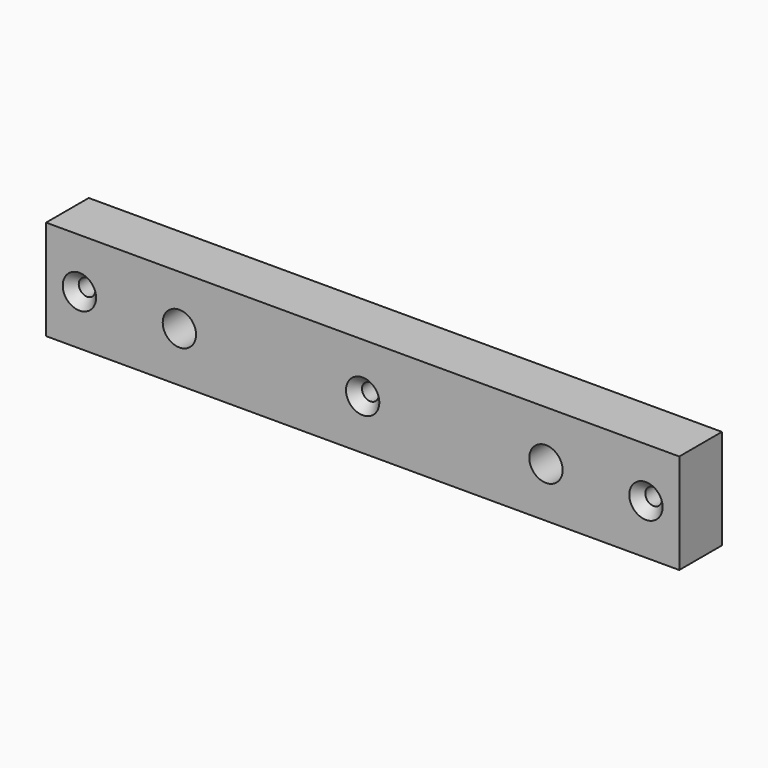
from build123d import *

# Parameters (mm, degrees)
F0_W           = 190
F0_H           = 30
F1_DEPTH       = 16
F3_D           = 10
F4_D           = 5
F4_CSINK_D     = 10
F4_CSINK_ANGLE = 82


with BuildPart() as f1:
    # F0 (on Front) → F1 (new body)
    with BuildSketch(Plane.XZ):
        with Locations((95, -15)):
            Rectangle(F0_W, F0_H)
        with Locations((95, -15)):
            Rectangle(F0_W, F0_H)
    extrude(amount=F1_DEPTH)

    # F3 (through all)
    with Locations(Plane.XZ.offset(16)):
        with Locations((40, -15), (150, -15)):
            Hole(F3_D / 2)

    # F4 (through all)
    with Locations(Plane.XZ.offset(16)):
        with Locations((10, -15), (95, -15), (180, -15)):
            CounterSinkHole(F4_D / 2, F4_CSINK_D / 2, counter_sink_angle=F4_CSINK_ANGLE)


solid = f1.part
